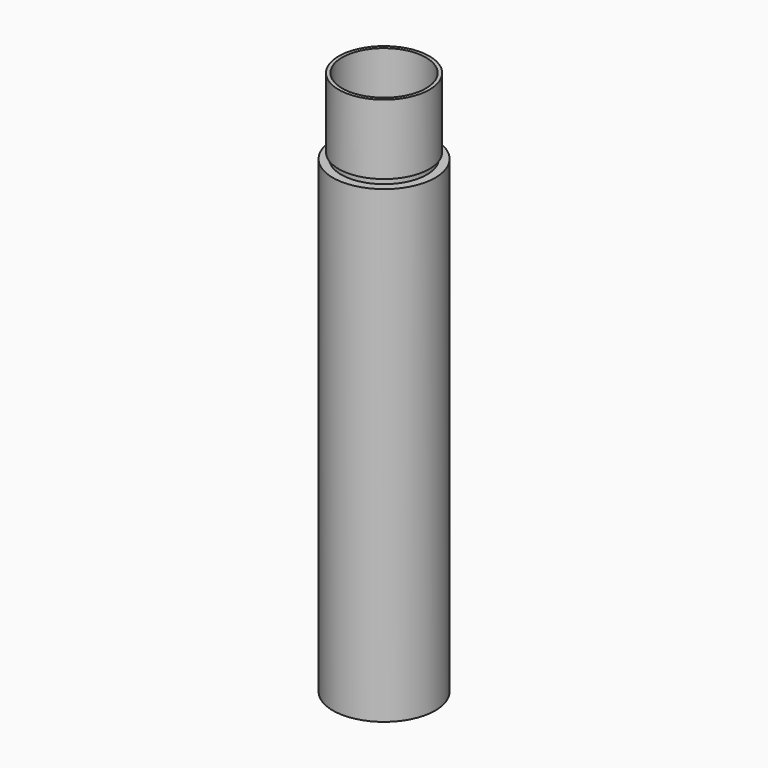
from build123d import *

# Parameters (mm, degrees)
F3_R     = 18
F4_DEPTH = 230


with BuildPart() as f1:
    # F0 (on Front) → F1 (revolve)
    with BuildSketch(Plane.XZ):
        Polygon((0, 234), (0, 0), (22, 0), (22, 201.5), (18.4, 201.5), (18.4, 204), (19.5, 204), (19.5, 234), align=None)
    revolve(axis=Axis((0, 0, 117), (0, 0, -1)))

    # F3 (on face) → F4 (cut)
    with BuildSketch(Plane.XY.offset(234)):
        Circle(F3_R)
    extrude(amount=-F4_DEPTH, mode=Mode.SUBTRACT)


solid = f1.part
